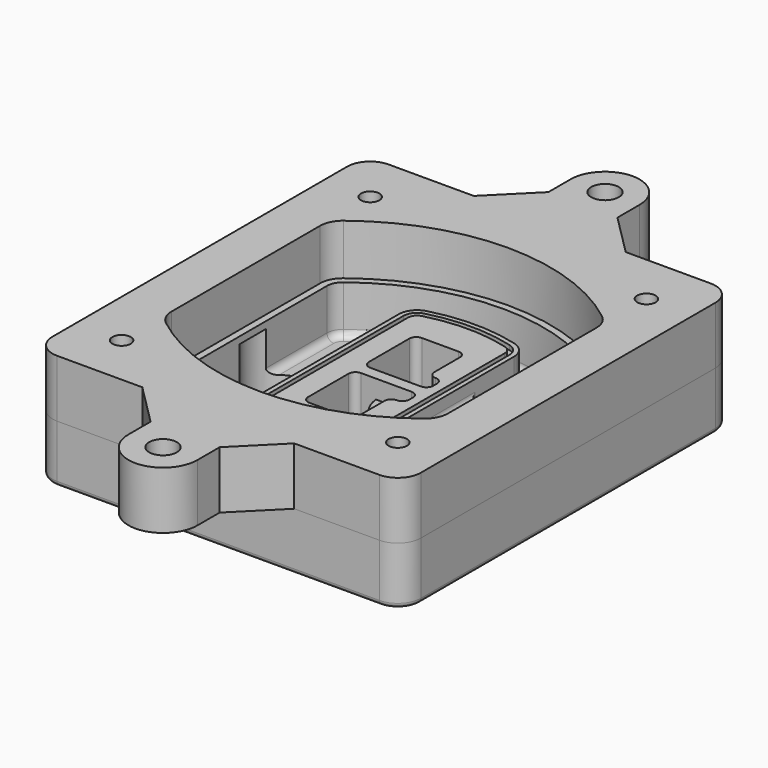
from build123d import *

# Parameters (mm, degrees)
F0_R      = 4
F1_DEPTH  = 25
F2_DEPTH  = 3
F3_DEPTH  = 18
F5_DEPTH  = 21
F6_DEPTH  = 2
F8_DEPTH  = 20
F9_DEPTH  = 16
F10_DEPTH = 25
F7_R      = 6
F7_R_2    = 4
F11_DEPTH = 6
F13_DEPTH = 9
F14_R     = 3
F15_R     = 2
F16_R     = 6
F16_R_2   = 4
F17_DEPTH = 25


with BuildPart() as f1:
    # F0 (on Top) → F1 (new body)
    with BuildSketch(Plane.XY):
        with BuildLine():
            ThreePointArc((-80, -80), (-77.0710678119, -87.0710678119), (-70, -90))
            Line((-70, -90), (70, -90))
            ThreePointArc((70, -90), (77.0710678119, -87.0710678119), (80, -80))
            Line((80, -80), (80, 80))
            ThreePointArc((80, 80), (77.0710678119, 87.0710678119), (70, 90))
            Line((70, 90), (-70, 90))
            ThreePointArc((-70, 90), (-77.0710678119, 87.0710678119), (-80, 80))
            Line((-80, 80), (-80, -80))
        make_face()
        with Locations((-60, -67.5)):
            Circle(F0_R, mode=Mode.SUBTRACT)
        with Locations((60, -67.5)):
            Circle(F0_R, mode=Mode.SUBTRACT)
        with Locations((-60, 67.5)):
            Circle(F0_R, mode=Mode.SUBTRACT)
        with BuildLine():
            ThreePointArc((-64, 40.2934422872), (-62.5820384798, 46.4328484224), (-58.6153846154, 51.3286200352))
            ThreePointArc((-58.6153846154, 51.3286200352), (0, 71.5), (58.6153846154, 51.3286200352))
            ThreePointArc((58.6153846154, 51.3286200352), (62.5820384798, 46.4328484224), (64, 40.2934422872))
            Line((64, 40.2934422872), (64, -40.2934422872))
            ThreePointArc((64, -40.2934422872), (62.5820384798, -46.4328484224), (58.6153846154, -51.3286200352))
            ThreePointArc((58.6153846154, -51.3286200352), (0, -71.5), (-58.6153846154, -51.3286200352))
            ThreePointArc((-58.6153846154, -51.3286200352), (-62.5820384798, -46.4328484224), (-64, -40.2934422872))
            Line((-64, -40.2934422872), (-64, 40.2934422872))
        make_face(mode=Mode.SUBTRACT)
        with Locations((60, 67.5)):
            Circle(F0_R, mode=Mode.SUBTRACT)
        with BuildLine():
            ThreePointArc((58.6153846154, 51.3286200352), (0, 71.5), (-58.6153846154, 51.3286200352))
            ThreePointArc((-58.6153846154, 51.3286200352), (-62.5820384798, 46.4328484224), (-64, 40.2934422872))
            Line((-64, 40.2934422872), (-64, -40.2934422872))
            ThreePointArc((-64, -40.2934422872), (-62.5820384798, -46.4328484224), (-58.6153846154, -51.3286200352))
            ThreePointArc((-58.6153846154, -51.3286200352), (0, -71.5), (58.6153846154, -51.3286200352))
            ThreePointArc((58.6153846154, -51.3286200352), (62.5820384798, -46.4328484224), (64, -40.2934422872))
            Line((64, -40.2934422872), (64, 40.2934422872))
            ThreePointArc((64, 40.2934422872), (62.5820384798, 46.4328484224), (58.6153846154, 51.3286200352))
        make_face()
        with BuildLine():
            Line((-60, -40.2934422872), (-60, 40.2934422872))
            ThreePointArc((-60, 40.2934422872), (-58.9871703427, 44.6787323838), (-56.1538461538, 48.1757121072))
            ThreePointArc((-56.1538461538, 48.1757121072), (0, 67.5), (56.1538461538, 48.1757121072))
            ThreePointArc((56.1538461538, 48.1757121072), (58.9871703427, 44.6787323838), (60, 40.2934422872))
            Line((60, 40.2934422872), (60, -40.2934422872))
            ThreePointArc((60, -40.2934422872), (58.9871703427, -44.6787323838), (56.1538461538, -48.1757121072))
            ThreePointArc((56.1538461538, -48.1757121072), (0, -67.5), (-56.1538461538, -48.1757121072))
            ThreePointArc((-56.1538461538, -48.1757121072), (-58.9871703427, -44.6787323838), (-60, -40.2934422872))
        make_face(mode=Mode.SUBTRACT)
        with BuildLine():
            ThreePointArc((-56.1538461538, 48.1757121072), (-58.9871703427, 44.6787323838), (-60, 40.2934422872))
            Line((-60, 40.2934422872), (-60, -40.2934422872))
            ThreePointArc((-60, -40.2934422872), (-58.9871703427, -44.6787323838), (-56.1538461538, -48.1757121072))
            ThreePointArc((-56.1538461538, -48.1757121072), (0, -67.5), (56.1538461538, -48.1757121072))
            ThreePointArc((56.1538461538, -48.1757121072), (58.9871703427, -44.6787323838), (60, -40.2934422872))
            Line((60, -40.2934422872), (60, 40.2934422872))
            ThreePointArc((60, 40.2934422872), (58.9871703427, 44.6787323838), (56.1538461538, 48.1757121072))
            ThreePointArc((56.1538461538, 48.1757121072), (0, 67.5), (-56.1538461538, 48.1757121072))
        make_face()
        with BuildLine():
            ThreePointArc((54.3076923077, 45.8110311612), (56.2910192399, 43.3631453548), (57, 40.2934422872))
            Line((57, 40.2934422872), (57, -40.2934422872))
            ThreePointArc((57, -40.2934422872), (56.2910192399, -43.3631453548), (54.3076923077, -45.8110311612))
            ThreePointArc((54.3076923077, -45.8110311612), (0, -64.5), (-54.3076923077, -45.8110311612))
            ThreePointArc((-54.3076923077, -45.8110311612), (-56.2910192399, -43.3631453548), (-57, -40.2934422872))
            Line((-57, -40.2934422872), (-57, 40.2934422872))
            ThreePointArc((-57, 40.2934422872), (-56.2910192399, 43.3631453548), (-54.3076923077, 45.8110311612))
            ThreePointArc((-54.3076923077, 45.8110311612), (0, 64.5), (54.3076923077, 45.8110311612))
        make_face(mode=Mode.SUBTRACT)
        with BuildLine():
            Line((57, -40.2934422872), (57, 40.2934422872))
            ThreePointArc((57, 40.2934422872), (56.2910192399, 43.3631453548), (54.3076923077, 45.8110311612))
            ThreePointArc((54.3076923077, 45.8110311612), (0, 64.5), (-54.3076923077, 45.8110311612))
            ThreePointArc((-54.3076923077, 45.8110311612), (-56.2910192399, 43.3631453548), (-57, 40.2934422872))
            Line((-57, 40.2934422872), (-57, -40.2934422872))
            ThreePointArc((-57, -40.2934422872), (-56.2910192399, -43.3631453548), (-54.3076923077, -45.8110311612))
            ThreePointArc((-54.3076923077, -45.8110311612), (0, -64.5), (54.3076923077, -45.8110311612))
            ThreePointArc((54.3076923077, -45.8110311612), (56.2910192399, -43.3631453548), (57, -40.2934422872))
        make_face()
    extrude(amount=-F1_DEPTH)

    # F0 (on Top) → F2 (join)
    with BuildSketch(Plane.XY):
        with BuildLine():
            ThreePointArc((-56.1538461538, 48.1757121072), (-58.9871703427, 44.6787323838), (-60, 40.2934422872))
            Line((-60, 40.2934422872), (-60, -40.2934422872))
            ThreePointArc((-60, -40.2934422872), (-58.9871703427, -44.6787323838), (-56.1538461538, -48.1757121072))
            ThreePointArc((-56.1538461538, -48.1757121072), (0, -67.5), (56.1538461538, -48.1757121072))
            ThreePointArc((56.1538461538, -48.1757121072), (58.9871703427, -44.6787323838), (60, -40.2934422872))
            Line((60, -40.2934422872), (60, 40.2934422872))
            ThreePointArc((60, 40.2934422872), (58.9871703427, 44.6787323838), (56.1538461538, 48.1757121072))
            ThreePointArc((56.1538461538, 48.1757121072), (0, 67.5), (-56.1538461538, 48.1757121072))
        make_face()
        with BuildLine():
            ThreePointArc((54.3076923077, 45.8110311612), (56.2910192399, 43.3631453548), (57, 40.2934422872))
            Line((57, 40.2934422872), (57, -40.2934422872))
            ThreePointArc((57, -40.2934422872), (56.2910192399, -43.3631453548), (54.3076923077, -45.8110311612))
            ThreePointArc((54.3076923077, -45.8110311612), (0, -64.5), (-54.3076923077, -45.8110311612))
            ThreePointArc((-54.3076923077, -45.8110311612), (-56.2910192399, -43.3631453548), (-57, -40.2934422872))
            Line((-57, -40.2934422872), (-57, 40.2934422872))
            ThreePointArc((-57, 40.2934422872), (-56.2910192399, 43.3631453548), (-54.3076923077, 45.8110311612))
            ThreePointArc((-54.3076923077, 45.8110311612), (0, 64.5), (54.3076923077, 45.8110311612))
        make_face(mode=Mode.SUBTRACT)
    extrude(amount=F2_DEPTH)

    # F0 (on Top) → F3 (cut)
    with BuildSketch(Plane.XY):
        with BuildLine():
            Line((57, -40.2934422872), (57, 40.2934422872))
            ThreePointArc((57, 40.2934422872), (56.2910192399, 43.3631453548), (54.3076923077, 45.8110311612))
            ThreePointArc((54.3076923077, 45.8110311612), (0, 64.5), (-54.3076923077, 45.8110311612))
            ThreePointArc((-54.3076923077, 45.8110311612), (-56.2910192399, 43.3631453548), (-57, 40.2934422872))
            Line((-57, 40.2934422872), (-57, -40.2934422872))
            ThreePointArc((-57, -40.2934422872), (-56.2910192399, -43.3631453548), (-54.3076923077, -45.8110311612))
            ThreePointArc((-54.3076923077, -45.8110311612), (0, -64.5), (54.3076923077, -45.8110311612))
            ThreePointArc((54.3076923077, -45.8110311612), (56.2910192399, -43.3631453548), (57, -40.2934422872))
        make_face()
    extrude(amount=-F3_DEPTH, mode=Mode.SUBTRACT)

    # F4 (on face) → F5 (join, through all)
    with BuildSketch(Plane.XY.offset(3)):
        with BuildLine():
            ThreePointArc((-25, -39.2465276821), (-23.3511545998, -44.1109737193), (-19.0842911877, -46.9702398883))
            ThreePointArc((-19.0842911877, -46.9702398883), (0, -49.5), (19.0842911877, -46.9702398883))
            ThreePointArc((19.0842911877, -46.9702398883), (23.3511545998, -44.1109737193), (25, -39.2465276821))
            Line((25, -39.2465276821), (25, 39.2465276821))
            ThreePointArc((25, 39.2465276821), (23.3511545998, 44.1109737193), (19.0842911877, 46.9702398883))
            ThreePointArc((19.0842911877, 46.9702398883), (0, 49.5), (-19.0842911877, 46.9702398883))
            ThreePointArc((-19.0842911877, 46.9702398883), (-23.3511545998, 44.1109737193), (-25, 39.2465276821))
            Line((-25, 39.2465276821), (-25, -39.2465276821))
        make_face()
        with BuildLine():
            ThreePointArc((18.5632183908, 45.0393118368), (21.7633659499, 42.89486221), (23, 39.2465276821))
            Line((23, 39.2465276821), (23, -39.2465276821))
            ThreePointArc((23, -39.2465276821), (21.7633659499, -42.89486221), (18.5632183908, -45.0393118368))
            ThreePointArc((18.5632183908, -45.0393118368), (0, -47.5), (-18.5632183908, -45.0393118368))
            ThreePointArc((-18.5632183908, -45.0393118368), (-21.7633659499, -42.89486221), (-23, -39.2465276821))
            Line((-23, -39.2465276821), (-23, 39.2465276821))
            ThreePointArc((-23, 39.2465276821), (-21.7633659499, 42.89486221), (-18.5632183908, 45.0393118368))
            ThreePointArc((-18.5632183908, 45.0393118368), (0, 47.5), (18.5632183908, 45.0393118368))
        make_face(mode=Mode.SUBTRACT)
        with BuildLine():
            Line((23, -39.2465276821), (23, 39.2465276821))
            ThreePointArc((23, 39.2465276821), (21.7633659499, 42.89486221), (18.5632183908, 45.0393118368))
            ThreePointArc((18.5632183908, 45.0393118368), (0, 47.5), (-18.5632183908, 45.0393118368))
            ThreePointArc((-18.5632183908, 45.0393118368), (-21.7633659499, 42.89486221), (-23, 39.2465276821))
            Line((-23, 39.2465276821), (-23, -39.2465276821))
            ThreePointArc((-23, -39.2465276821), (-21.7633659499, -42.89486221), (-18.5632183908, -45.0393118368))
            ThreePointArc((-18.5632183908, -45.0393118368), (0, -47.5), (18.5632183908, -45.0393118368))
            ThreePointArc((18.5632183908, -45.0393118368), (21.7633659499, -42.89486221), (23, -39.2465276821))
        make_face()
        with BuildLine():
            ThreePointArc((18.0421455939, 43.1083837852), (20.1755772999, 41.6787507007), (21, 39.2465276821))
            Line((21, 39.2465276821), (21, -39.2465276821))
            ThreePointArc((21, -39.2465276821), (20.1755772999, -41.6787507007), (18.0421455939, -43.1083837852))
            ThreePointArc((18.0421455939, -43.1083837852), (0, -45.5), (-18.0421455939, -43.1083837852))
            ThreePointArc((-18.0421455939, -43.1083837852), (-20.1755772999, -41.6787507007), (-21, -39.2465276821))
            Line((-21, -39.2465276821), (-21, 39.2465276821))
            ThreePointArc((-21, 39.2465276821), (-20.1755772999, 41.6787507007), (-18.0421455939, 43.1083837852))
            ThreePointArc((-18.0421455939, 43.1083837852), (0, 45.5), (18.0421455939, 43.1083837852))
        make_face(mode=Mode.SUBTRACT)
        with BuildLine():
            Line((21, -39.2465276821), (21, 39.2465276821))
            ThreePointArc((21, 39.2465276821), (20.1755772999, 41.6787507007), (18.0421455939, 43.1083837852))
            ThreePointArc((18.0421455939, 43.1083837852), (0, 45.5), (-18.0421455939, 43.1083837852))
            ThreePointArc((-18.0421455939, 43.1083837852), (-20.1755772999, 41.6787507007), (-21, 39.2465276821))
            Line((-21, 39.2465276821), (-21, -39.2465276821))
            ThreePointArc((-21, -39.2465276821), (-20.1755772999, -41.6787507007), (-18.0421455939, -43.1083837852))
            ThreePointArc((-18.0421455939, -43.1083837852), (0, -45.5), (18.0421455939, -43.1083837852))
            ThreePointArc((18.0421455939, -43.1083837852), (20.1755772999, -41.6787507007), (21, -39.2465276821))
        make_face()
        with BuildLine():
            Line((-8, -2.5), (14, -2.5))
            ThreePointArc((14, -2.5), (16.1213203436, -3.3786796564), (17, -5.5))
            Line((17, -5.5), (17, -7.5))
            ThreePointArc((17, -7.5), (16.1213203436, -9.6213203436), (14, -10.5))
            ThreePointArc((14, -10.5), (11.8786796564, -11.3786796564), (11, -13.5))
            Line((11, -13.5), (11, -27.5))
            ThreePointArc((11, -27.5), (10.1213203436, -29.6213203436), (8, -30.5))
            Line((8, -30.5), (-8, -30.5))
            ThreePointArc((-8, -30.5), (-10.1213203436, -29.6213203436), (-11, -27.5))
            Line((-11, -27.5), (-11, -5.5))
            ThreePointArc((-11, -5.5), (-10.1213203436, -3.3786796564), (-8, -2.5))
        make_face(mode=Mode.SUBTRACT)
        with BuildLine():
            ThreePointArc((-8, 2.5), (-10.1213203436, 3.3786796564), (-11, 5.5))
            Line((-11, 5.5), (-11, 27.5))
            ThreePointArc((-11, 27.5), (-10.1213203436, 29.6213203436), (-8, 30.5))
            Line((-8, 30.5), (8, 30.5))
            ThreePointArc((8, 30.5), (10.1213203436, 29.6213203436), (11, 27.5))
            Line((11, 27.5), (11, 13.5))
            ThreePointArc((11, 13.5), (11.8786796564, 11.3786796564), (14, 10.5))
            ThreePointArc((14, 10.5), (16.1213203436, 9.6213203436), (17, 7.5))
            Line((17, 7.5), (17, 5.5))
            ThreePointArc((17, 5.5), (16.1213203436, 3.3786796564), (14, 2.5))
            Line((14, 2.5), (-8, 2.5))
        make_face(mode=Mode.SUBTRACT)
    extrude(amount=-F5_DEPTH)

    # F4 (on face) → F6 (cut)
    with BuildSketch(Plane.XY.offset(3)):
        with BuildLine():
            Line((23, -39.2465276821), (23, 39.2465276821))
            ThreePointArc((23, 39.2465276821), (21.7633659499, 42.89486221), (18.5632183908, 45.0393118368))
            ThreePointArc((18.5632183908, 45.0393118368), (0, 47.5), (-18.5632183908, 45.0393118368))
            ThreePointArc((-18.5632183908, 45.0393118368), (-21.7633659499, 42.89486221), (-23, 39.2465276821))
            Line((-23, 39.2465276821), (-23, -39.2465276821))
            ThreePointArc((-23, -39.2465276821), (-21.7633659499, -42.89486221), (-18.5632183908, -45.0393118368))
            ThreePointArc((-18.5632183908, -45.0393118368), (0, -47.5), (18.5632183908, -45.0393118368))
            ThreePointArc((18.5632183908, -45.0393118368), (21.7633659499, -42.89486221), (23, -39.2465276821))
        make_face()
        with BuildLine():
            ThreePointArc((18.0421455939, 43.1083837852), (20.1755772999, 41.6787507007), (21, 39.2465276821))
            Line((21, 39.2465276821), (21, -39.2465276821))
            ThreePointArc((21, -39.2465276821), (20.1755772999, -41.6787507007), (18.0421455939, -43.1083837852))
            ThreePointArc((18.0421455939, -43.1083837852), (0, -45.5), (-18.0421455939, -43.1083837852))
            ThreePointArc((-18.0421455939, -43.1083837852), (-20.1755772999, -41.6787507007), (-21, -39.2465276821))
            Line((-21, -39.2465276821), (-21, 39.2465276821))
            ThreePointArc((-21, 39.2465276821), (-20.1755772999, 41.6787507007), (-18.0421455939, 43.1083837852))
            ThreePointArc((-18.0421455939, 43.1083837852), (0, 45.5), (18.0421455939, 43.1083837852))
        make_face(mode=Mode.SUBTRACT)
    extrude(amount=-F6_DEPTH, mode=Mode.SUBTRACT)

    # F7 (on face) → F8 (join)
    with BuildSketch(Plane(origin=(0, 0, -25), x_dir=(1, 0, 0), z_dir=(0, 0, -1))):
        with BuildLine():
            ThreePointArc((3.28842436, 0), (16.7567035675, 13.4682792075), (30.224982775, 0))
            Line((30.224982775, 0), (35.224982775, 0))
            ThreePointArc((35.224982775, 0), (16.7567035675, 18.4682792075), (-1.71157564, 0))
            Line((-1.71157564, 0), (3.28842436, 0))
        make_face()
        with BuildLine():
            Line((3.28842436, 0), (30.224982775, 0))
            ThreePointArc((30.224982775, 0), (16.7567035675, 13.4682792075), (3.28842436, 0))
        make_face()
        with BuildLine():
            ThreePointArc((3.28842436, 0), (16.7567035675, -13.4682792075), (30.224982775, 0))
            Line((30.224982775, 0), (3.28842436, 0))
        make_face()
        with BuildLine():
            Line((35.224982775, 0), (30.224982775, 0))
            ThreePointArc((30.224982775, 0), (16.7567035675, -13.4682792075), (3.28842436, 0))
            Line((3.28842436, 0), (-1.71157564, 0))
            ThreePointArc((-1.71157564, 0), (16.7567035675, -18.4682792075), (35.224982775, 0))
        make_face()
    extrude(amount=-F8_DEPTH)

    # F7 (on face) → F9 (cut)
    with BuildSketch(Plane(origin=(0, 0, -25), x_dir=(1, 0, 0), z_dir=(0, 0, -1))):
        with BuildLine():
            Line((3.28842436, 0), (30.224982775, 0))
            ThreePointArc((30.224982775, 0), (16.7567035675, 13.4682792075), (3.28842436, 0))
        make_face()
        with BuildLine():
            ThreePointArc((3.28842436, 0), (16.7567035675, -13.4682792075), (30.224982775, 0))
            Line((30.224982775, 0), (3.28842436, 0))
        make_face()
    extrude(amount=-F9_DEPTH, mode=Mode.SUBTRACT)

    # F7 (on face) → F10 (cut)
    with BuildSketch(Plane(origin=(0, 0, -25), x_dir=(1, 0, 0), z_dir=(0, 0, -1))):
        with BuildLine():
            Line((-59.0318229325, 0), (-32.0952645175, 0))
            ThreePointArc((-32.0952645175, 0), (-45.563543725, 13.4682792075), (-59.0318229325, 0))
        make_face()
        with BuildLine():
            ThreePointArc((-59.0318229325, 0), (-45.563543725, -13.4682792075), (-32.0952645175, 0))
            Line((-32.0952645175, 0), (-59.0318229325, 0))
        make_face()
    extrude(amount=-F10_DEPTH, mode=Mode.SUBTRACT)

    # F7 (on face) → F11 (cut)
    with BuildSketch(Plane(origin=(0, 0, -25), x_dir=(1, 0, 0), z_dir=(0, 0, -1))):
        with Locations((60, -67.5)):
            Circle(F7_R)
        with Locations((60, -67.5)):
            Circle(F7_R_2, mode=Mode.SUBTRACT)
        with Locations((60, -67.5)):
            Circle(F7_R)
        with Locations((60, -67.5)):
            Circle(F7_R_2, mode=Mode.SUBTRACT)
        with Locations((-60, -67.5)):
            Circle(F7_R)
        with Locations((-60, -67.5)):
            Circle(F7_R_2, mode=Mode.SUBTRACT)
        with Locations((-60, -67.5)):
            Circle(F7_R)
        with Locations((-60, -67.5)):
            Circle(F7_R_2, mode=Mode.SUBTRACT)
        with Locations((-60, 67.5)):
            Circle(F7_R)
        with Locations((-60, 67.5)):
            Circle(F7_R_2, mode=Mode.SUBTRACT)
        with Locations((-60, 67.5)):
            Circle(F7_R)
        with Locations((-60, 67.5)):
            Circle(F7_R_2, mode=Mode.SUBTRACT)
        with Locations((60, 67.5)):
            Circle(F7_R)
        with Locations((60, 67.5)):
            Circle(F7_R_2, mode=Mode.SUBTRACT)
        with Locations((60, 67.5)):
            Circle(F7_R)
        with Locations((60, 67.5)):
            Circle(F7_R_2, mode=Mode.SUBTRACT)
    extrude(amount=-F11_DEPTH, mode=Mode.SUBTRACT)

    # F12 (on face) → F13 (cut, through all)
    with BuildSketch(Plane(origin=(0, 0, -9), x_dir=(1, 0, 0), z_dir=(0, 0, -1))):
        with BuildLine():
            Line((11, 13.5), (11, 17.5481537753))
            ThreePointArc((11, 17.5481537753), (2.5696536419, 11.8239143813), (-1.5415842455, 2.5))
            Line((-1.5415842455, 2.5), (3.5224848595, 2.5))
            ThreePointArc((3.5224848595, 2.5), (6.1857188154, 8.3455872281), (11.2536447004, 12.2927168648))
            ThreePointArc((11.2536447004, 12.2927168648), (11.0640958889, 12.8831798879), (11, 13.5))
        make_face()
        with BuildLine():
            ThreePointArc((11.2536447004, -12.2927168648), (6.1857188154, -8.3455872281), (3.5224848595, -2.5))
            Line((3.5224848595, -2.5), (-1.5415842455, -2.5))
            ThreePointArc((-1.5415842455, -2.5), (2.5696536419, -11.8239143813), (11, -17.5481537753))
            Line((11, -17.5481537753), (11, -13.5))
            ThreePointArc((11, -13.5), (11.0640958889, -12.8831798879), (11.2536447004, -12.2927168648))
        make_face()
        with BuildLine():
            ThreePointArc((11.2536447004, 12.2927168648), (6.1857188154, 8.3455872281), (3.5224848595, 2.5))
            Line((3.5224848595, 2.5), (14, 2.5))
            ThreePointArc((14, 2.5), (16.1213203436, 3.3786796564), (17, 5.5))
            Line((17, 5.5), (17, 7.5))
            ThreePointArc((17, 7.5), (16.1213203436, 9.6213203436), (14, 10.5))
            ThreePointArc((14, 10.5), (12.3601599782, 10.9878446101), (11.2536447004, 12.2927168648))
        make_face()
        with BuildLine():
            Line((14, -2.5), (3.5224848595, -2.5))
            ThreePointArc((3.5224848595, -2.5), (6.1857188154, -8.3455872281), (11.2536447004, -12.2927168648))
            ThreePointArc((11.2536447004, -12.2927168648), (12.3601599782, -10.9878446101), (14, -10.5))
            ThreePointArc((14, -10.5), (16.1213203436, -9.6213203436), (17, -7.5))
            Line((17, -7.5), (17, -5.5))
            ThreePointArc((17, -5.5), (16.1213203436, -3.3786796564), (14, -2.5))
        make_face()
    extrude(amount=F13_DEPTH, mode=Mode.SUBTRACT)

    # F14
    f14_edges = [f1.edges().sort_by_distance(p)[0] for p in [
        (-57, -23.703476, -18),
        (-57, 23.703476, -18),
        (25, 0, -5),
        (25, 16.526506, -11.5),
        (25, -16.526506, -11.5),
        (25, -27.886517, -18),
        (35.224983, 0, -18),
    ]]
    fillet(f14_edges, radius=F14_R)

    # F15
    f15_edges = [f1.edges().sort_by_distance(p)[0] for p in [
        (0, -90, -25),
    ]]
    fillet(f15_edges, radius=F15_R)


with BuildPart() as f17:
    # F16 (on face) → F17 (new body)
    with BuildSketch(Plane.XY):
        with BuildLine():
            Line((-15, 108), (-33, 90))
            Line((-33, 90), (33, 90))
            Line((33, 90), (15, 108))
            Line((15, 108), (15, 120))
            ThreePointArc((15, 120), (0, 135), (-15, 120))
            Line((-15, 120), (-15, 108))
        make_face()
        with Locations((0, 120)):
            Circle(F16_R, mode=Mode.SUBTRACT)
        with BuildLine():
            Line((33, -90), (-33, -90))
            Line((-33, -90), (-15, -108))
            Line((-15, -108), (-15, -120))
            ThreePointArc((-15, -120), (0, -135), (15, -120))
            Line((15, -120), (15, -108))
            Line((15, -108), (33, -90))
        make_face()
        with Locations((0, -120)):
            Circle(F16_R, mode=Mode.SUBTRACT)
        with BuildLine():
            Line((33, 90), (-33, 90))
            Line((-33, 90), (-70, 90))
            ThreePointArc((-70, 90), (-77.0710678119, 87.0710678119), (-80, 80))
            Line((-80, 80), (-80, -80))
            ThreePointArc((-80, -80), (-77.0710678119, -87.0710678119), (-70, -90))
            Line((-70, -90), (-33, -90))
            Line((-33, -90), (33, -90))
            Line((33, -90), (70, -90))
            ThreePointArc((70, -90), (77.0710678119, -87.0710678119), (80, -80))
            Line((80, -80), (80, 80))
            ThreePointArc((80, 80), (77.0710678119, 87.0710678119), (70, 90))
            Line((70, 90), (33, 90))
        make_face()
        with Locations((-60, -67.5)):
            Circle(F16_R_2, mode=Mode.SUBTRACT)
        with Locations((60, -67.5)):
            Circle(F16_R_2, mode=Mode.SUBTRACT)
        with Locations((-60, 67.5)):
            Circle(F16_R_2, mode=Mode.SUBTRACT)
        with BuildLine():
            ThreePointArc((-60, 40.2934422872), (-58.9871703427, 44.6787323838), (-56.1538461538, 48.1757121072))
            ThreePointArc((-56.1538461538, 48.1757121072), (0, 67.5), (56.1538461538, 48.1757121072))
            ThreePointArc((56.1538461538, 48.1757121072), (58.9871703427, 44.6787323838), (60, 40.2934422872))
            Line((60, 40.2934422872), (60, -40.2934422872))
            ThreePointArc((60, -40.2934422872), (58.9871703427, -44.6787323838), (56.1538461538, -48.1757121072))
            ThreePointArc((56.1538461538, -48.1757121072), (0, -67.5), (-56.1538461538, -48.1757121072))
            ThreePointArc((-56.1538461538, -48.1757121072), (-58.9871703427, -44.6787323838), (-60, -40.2934422872))
            Line((-60, -40.2934422872), (-60, 40.2934422872))
        make_face(mode=Mode.SUBTRACT)
        with Locations((60, 67.5)):
            Circle(F16_R_2, mode=Mode.SUBTRACT)
    extrude(amount=F17_DEPTH)


solid = Compound([f1.part, f17.part])
